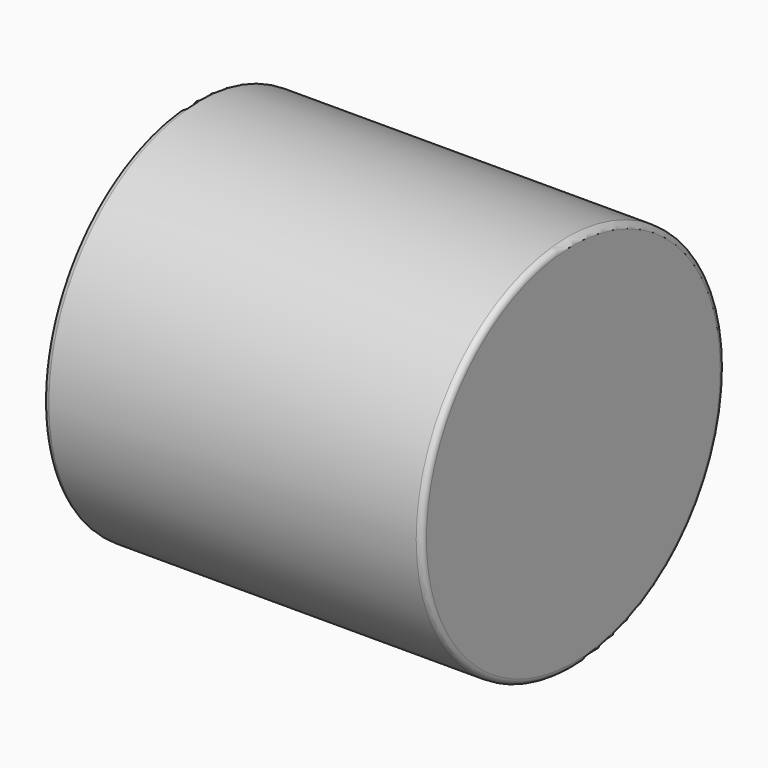
from build123d import *

# Parameters (mm, degrees)
F0_R     = 25.4
F1_DEPTH = 25.4
F2_R     = 0.762


with BuildPart() as f1:
    # F0 (on Right) → F1 (new body, symmetric)
    with BuildSketch(Plane.YZ):
        Circle(F0_R)
    extrude(amount=F1_DEPTH, both=True)

    # F2
    f2_edges = [f1.edges().sort_by_distance(p)[0] for p in [
        (25.4, -25.4, 0),
        (-25.4, -25.4, 0),
    ]]
    fillet(f2_edges, radius=F2_R)


solid = f1.part
